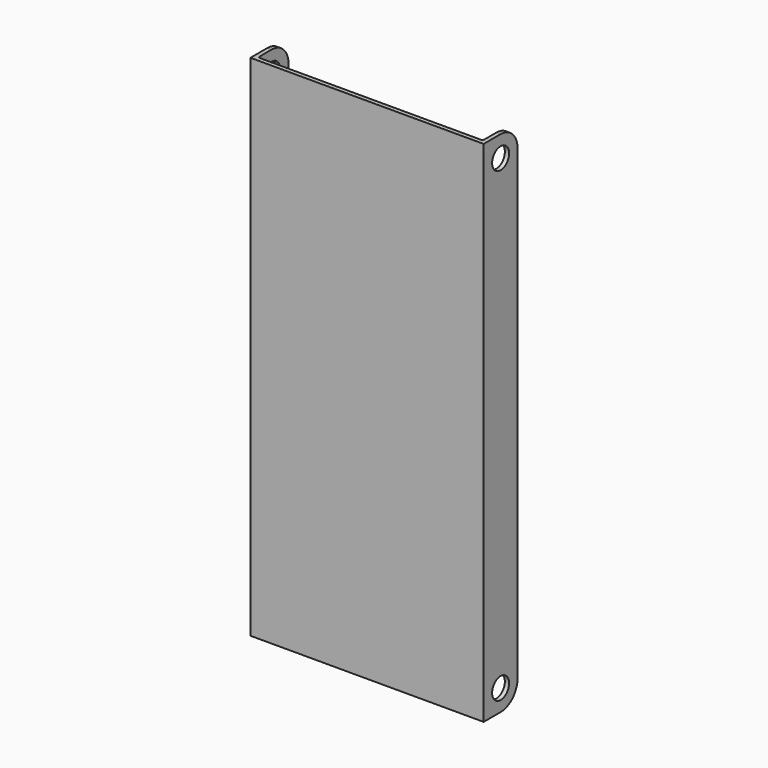
from build123d import *

# Parameters (mm, degrees)
F0_R     = 3.175
F1_DEPTH = 1.27
F3_DEPTH = 152.4


with BuildPart() as f1:
    # F0 (on Right) → F1 (new body)
    with BuildSketch(Plane.YZ):
        with BuildLine():
            Line((6.35, 0), (0, 0))
            Line((0, 0), (0, -76.2))
            Line((0, -76.2), (12.7, -76.2))
            Line((12.7, -76.2), (12.7, -6.35))
            ThreePointArc((12.7, -6.35), (10.840128, -1.859872), (6.35, 0))
        make_face()
        with Locations((6.35, -6.35)):
            Circle(F0_R, mode=Mode.SUBTRACT)
        with BuildLine():
            Line((12.7, -76.2), (0, -76.2))
            Line((0, -76.2), (0, -152.4))
            Line((0, -152.4), (6.35, -152.4))
            ThreePointArc((6.35, -152.4), (10.840128, -150.540128), (12.7, -146.05))
            Line((12.7, -146.05), (12.7, -76.2))
        make_face()
        with Locations((6.35, -146.05)):
            Circle(F0_R, mode=Mode.SUBTRACT)
    extrude(amount=F1_DEPTH)

    # F2 (on face) → F3 (join, through all)
    with BuildSketch(Plane.XY):
        with BuildLine():
            ThreePointArc((0, 1.905), (-0.185987, 1.455987), (-0.635, 1.27))
            Line((-0.635, 1.27), (-33.655, 1.27))
            Line((-33.655, 1.27), (-33.655, 0))
            Line((-33.655, 0), (0, 0))
            Line((0, 0), (0, 1.905))
        make_face()
    extrude(amount=-F3_DEPTH)

    # F4: F1 across face


with BuildPart() as f1_1:
    add(f1.part)
    add(f1.part.mirror(Plane(origin=(-33.655, 0.635, -76.2), x_dir=(0, -1, 0), z_dir=(-1, 0, 0))))


solid = f1_1.part
